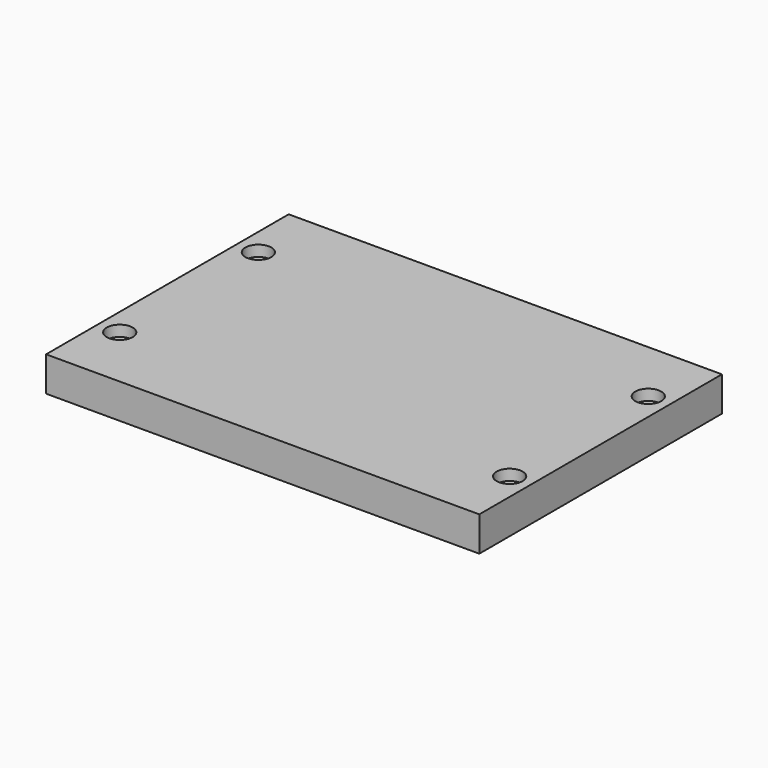
from build123d import *

# Parameters (mm, degrees)
SKETCH_W     = 200
SKETCH_H     = 140
SKETCH_R     = 3
PAD_DEPTH    = 16
SKETCH001_R  = 6
POCKET_DEPTH = 5


with BuildPart() as part:
    # Sketch → Pad (new body)
    with BuildSketch(Plane.XY):
        with Locations((100, 70)):
            Rectangle(SKETCH_W, SKETCH_H)
        with Locations((10, 110)):
            Circle(SKETCH_R, mode=Mode.SUBTRACT)
        with Locations((10, 30)):
            Circle(SKETCH_R, mode=Mode.SUBTRACT)
        with Locations((190, 110)):
            Circle(SKETCH_R, mode=Mode.SUBTRACT)
        with Locations((190, 30)):
            Circle(SKETCH_R, mode=Mode.SUBTRACT)
    extrude(amount=PAD_DEPTH)

    # Sketch001 (on Face10 of Pad) → Pocket (cut)
    with BuildSketch(Plane.XY.offset(16)):
        with Locations((10, 110)):
            Circle(SKETCH001_R)
        with Locations((190, 110)):
            Circle(SKETCH001_R)
        with Locations((190, 30)):
            Circle(SKETCH001_R)
        with Locations((10, 30)):
            Circle(SKETCH001_R)
    extrude(amount=-POCKET_DEPTH, mode=Mode.SUBTRACT)


solid = part.part
